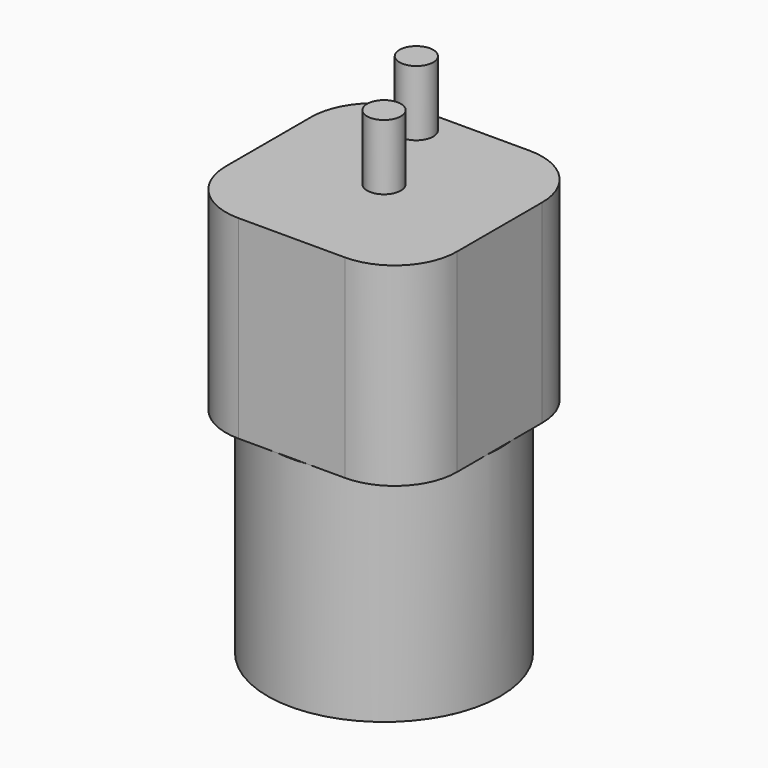
from build123d import *

# Parameters (mm, degrees)
PAD_DEPTH    = 27.3
SKETCH001_R  = 16.375
PAD001_DEPTH = 30.75
SKETCH002_R  = 2.375
PAD002_DEPTH = 36.5
SKETCH004_W  = 2
SKETCH004_H  = 0.75
PAD004_DEPTH = 35


with BuildPart() as part:
    # Sketch → Pad (new body)
    with BuildSketch(Plane.XY):
        with BuildLine():
            Line((-16.25, 7.500021), (-16.25, -7.5))
            ThreePointArc((-16.25, -7.5), (-13.687184, -13.687185), (-7.499999, -16.25))
            Line((-7.499999, -16.25), (7.500022, -16.25))
            ThreePointArc((7.500022, -16.25), (13.687191, -13.687191), (16.25, -7.500023))
            Line((16.25, -7.500023), (16.25, 7.499999))
            ThreePointArc((16.25, 7.499999), (13.687185, 13.687184), (7.5, 16.25))
            Line((7.5, 16.25), (-7.500021, 16.25))
            ThreePointArc((-7.500021, 16.25), (-13.687184, 13.687184), (-16.25, 7.500021))
        make_face()
    extrude(amount=PAD_DEPTH)

    # Sketch001 → Pad001 (join)
    with BuildSketch(Plane.XY):
        Circle(SKETCH001_R)
    extrude(amount=-PAD001_DEPTH)

    # Sketch002 → Pad002 (join)
    with BuildSketch(Plane.XY):
        Circle(SKETCH002_R)
        with Locations((-5.25, 12.25)):
            Circle(SKETCH002_R)
    extrude(amount=PAD002_DEPTH)

    # Sketch004 → Pad004 (join)
    with BuildSketch(Plane.XY):
        with Locations((-8.875, 0)):
            Rectangle(SKETCH004_W, SKETCH004_H)
        with Locations((8.875, 0)):
            Rectangle(SKETCH004_W, SKETCH004_H)
    extrude(amount=-PAD004_DEPTH)


solid = part.part
